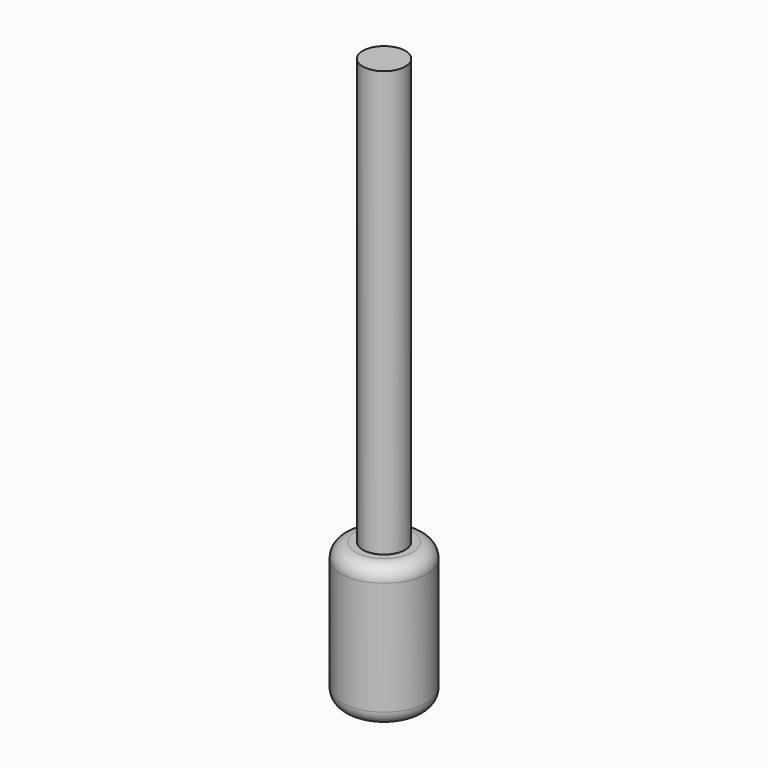
from build123d import *

# Parameters (mm, degrees)
F0_R     = 15
F1_DEPTH = 50
F2_R     = 5
F3_R     = 7.5
F4_DEPTH = 150


with BuildPart() as f1:
    # F0 (on Top) → F1 (new body)
    with BuildSketch(Plane.XY):
        Circle(F0_R)
    extrude(amount=F1_DEPTH)

    # F2
    f2_edges = [f1.edges().sort_by_distance(p)[0] for p in [
        (-15, 0, 50),
        (-15, 0, 0),
    ]]
    fillet(f2_edges, radius=F2_R)

    # F3 (on face) → F4 (join)
    with BuildSketch(Plane.XY.offset(50)):
        Circle(F3_R)
    extrude(amount=F4_DEPTH)


solid = f1.part
